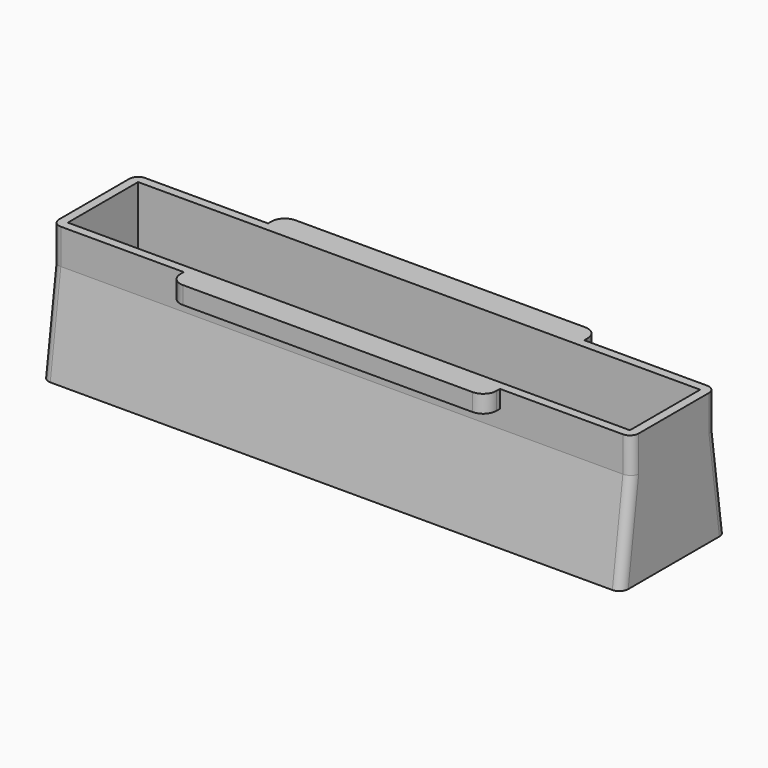
from build123d import *

# Parameters (mm, degrees)
PAD002_DEPTH    = 66
SKETCH003_W     = 10
SKETCH003_H     = 64
POCKET_DEPTH    = 15.001
SKETCH004_W     = 2
SKETCH004_H     = 15
POCKET001_DEPTH = 2
FILLET004003_R  = 1.5
FILLET004004_R  = 1


with BuildPart() as part:
    # Sketch002 → Pad002 (new body)
    with BuildSketch(Plane.YZ):
        Polygon((-7.5, 0), (7.5, 0), (6, 11), (6, 13), (8, 13), (8, 15), (-8, 15), (-8, 13), (-6, 13), (-6, 11), align=None)
    extrude(amount=PAD002_DEPTH)

    # Sketch003 (on Face6 of Pad002) → Pocket (cut, through all)
    with BuildSketch(Plane(origin=(0, 0, 15), x_dir=(0, -1, 0), z_dir=(0, 0, 1))):
        with Locations((0, 33)):
            Rectangle(SKETCH003_W, SKETCH003_H)
    extrude(amount=-POCKET_DEPTH, mode=Mode.SUBTRACT)

    # Sketch004 (on Face14 of Pocket) → Pocket001 (cut)
    with BuildSketch(Plane(origin=(0, 0, 15), x_dir=(0, -1, 0), z_dir=(0, 0, 1))):
        with Locations((-7, 7.5)):
            Rectangle(SKETCH004_W, SKETCH004_H)
        with Locations((7, 7.5)):
            Rectangle(SKETCH004_W, SKETCH004_H)
        with Locations((-7, 58.5)):
            Rectangle(SKETCH004_W, SKETCH004_H)
        with Locations((7, 58.5)):
            Rectangle(SKETCH004_W, SKETCH004_H)
    extrude(amount=-POCKET001_DEPTH, mode=Mode.SUBTRACT)

    # Fillet004003
    fillet004003_edges = [part.edges().sort_by_distance(p)[0] for p in [
        (15, -8, 14),
        (51, -8, 14),
        (51, 8, 14),
        (15, 8, 14),
    ]]
    fillet(fillet004003_edges, radius=FILLET004003_R)

    # Fillet004004
    fillet004004_edges = [part.edges().sort_by_distance(p)[0] for p in [
        (0, 6.75, 5.5),
        (0, 6, 13),
        (0, -6, 13),
        (0, -6.75, 5.5),
        (66, -6, 13),
        (66, -6.75, 5.5),
        (66, 6, 13),
        (66, 6.75, 5.5),
    ]]
    fillet(fillet004004_edges, radius=FILLET004004_R)


solid = part.part
